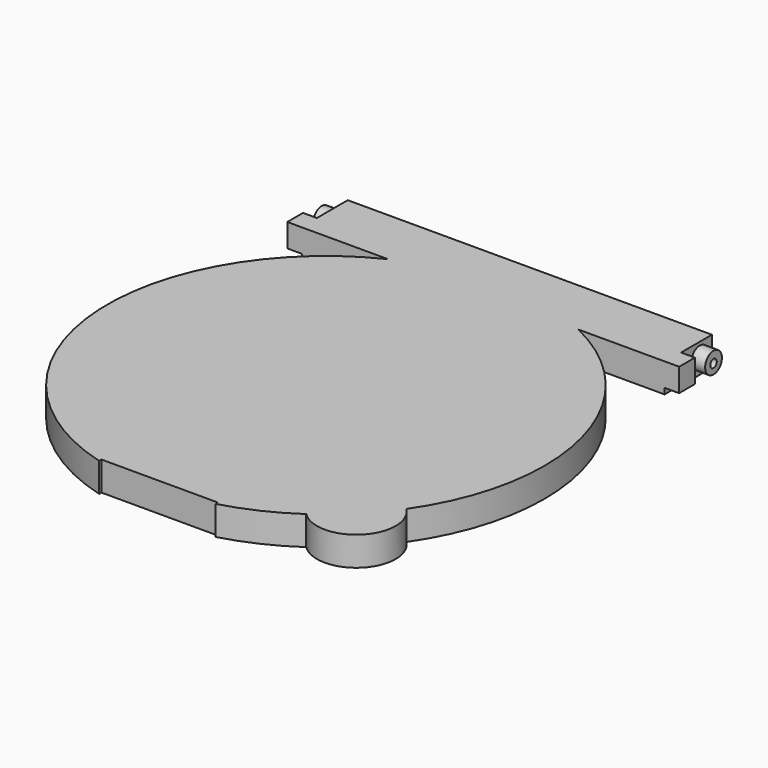
from build123d import *

# Parameters (mm, degrees)
PAD002_DEPTH       = 10
SKETCH027_R        = 3.6
POCKET001_DEPTH    = 5
POCKET004_DEPTH    = 7
POLARPATTERN_COUNT = 6
SKETCH032_R        = 21.5
POCKET005_DEPTH    = 7
POCKET006_DEPTH    = 142.501
SKETCH034_W        = 5
SKETCH034_H        = 8.75
POCKET007_DEPTH    = 2
SKETCH029_R        = 1.4
POCKET010_DEPTH    = 142.501
SKETCH077_R        = 4.05
POCKET021_DEPTH    = 3
SKETCH080_R        = 5.05
SKETCH080_R_2      = 4.05
PAD026_DEPTH       = 2


with BuildPart() as part:
    # Sketch026 → Pad002 (new body)
    with BuildSketch(Plane.XY):
        with BuildLine():
            Line((-32.691742, 67.5), (-67.25, 67.5))
            Line((-67.25, 67.5), (-67.25, 87.5))
            Line((-67.25, 87.5), (67.25, 87.5))
            Line((67.25, 87.5), (67.25, 67.5))
            Line((67.25, 67.5), (32.691742, 67.5))
            ThreePointArc((61.712741, -42.620858), (72.523806, 19.112758), (32.691742, 67.5))
            ThreePointArc((42.620858, -61.712741), (61.712741, -61.712741), (61.712741, -42.620858))
            ThreePointArc((20, -72.284161), (31.753452, -67.946437), (42.620858, -61.712741))
            Line((20, -71.284161), (20, -72.284161))
            Line((-20, -71.284161), (20, -71.284161))
            Line((-20, -72.284161), (-20, -71.284161))
            ThreePointArc((-32.691742, 67.5), (-74.692756, -6.78175), (-20, -72.284161))
        make_face()
    extrude(amount=PAD002_DEPTH)

    # Sketch027 (on DatumPlane) → Pocket001 (cut)
    with BuildSketch(Plane.YZ.offset(67.5)):
        Polygon((74.25, 10), (87.5, 10), (87.5, 0), (82.25, 0), (74.25, 0), align=None)
        with Locations((82.25, 5.25)):
            Circle(SKETCH027_R, mode=Mode.SUBTRACT)
    pocket001 = extrude(amount=-POCKET001_DEPTH, mode=Mode.SUBTRACT)

    # Mirrored002: Pocket001 across YZ
    add(pocket001.mirror(Plane.YZ), mode=Mode.SUBTRACT)

    # Sketch030 → Groove (revolve, cut)
    with BuildSketch(Plane.XZ):
        with BuildLine():
            ThreePointArc((70, 0), (68, 4), (66, 0))
            Line((66, 0), (70, 0))
        make_face()
    revolve(axis=Axis((0, 0, 0), (0, 0, 1)), mode=Mode.SUBTRACT)

    # Sketch031 → Pocket004 (cut)
    with BuildSketch(Plane.XY):
        with BuildLine():
            ThreePointArc((49.255383, 39.279858), (27.334676, 56.761039), (0, 63))
            Line((0, 22.5), (0, 63))
            ThreePointArc((17.591208, 14.028521), (9.762384, 20.2718), (0, 22.5))
            Line((17.591208, 14.028521), (49.255383, 39.279858))
        make_face()
    pocket004 = extrude(amount=POCKET004_DEPTH, mode=Mode.SUBTRACT)

    # PolarPattern: Pocket004 ×6 about axis
    polarpattern_axis = Axis((0, 0, 0), (0, 0, 1))
    for i in range(1, POLARPATTERN_COUNT):
        add(pocket004.rotate(polarpattern_axis, i * 360 / POLARPATTERN_COUNT), mode=Mode.SUBTRACT)

    # Sketch032 → Pocket005 (cut)
    with BuildSketch(Plane.XY):
        Circle(SKETCH032_R)
    extrude(amount=POCKET005_DEPTH, mode=Mode.SUBTRACT)

    # Sketch033 (on DatumPlane) → Pocket006 (cut, through all)
    with BuildSketch(Plane.YZ.offset(67.5)):
        with BuildLine():
            Line((82.25, 0), (87.5, 0))
            Line((87.5, 0), (87.5, 5.25))
            ThreePointArc((82.25, 0), (85.962311, 1.537689), (87.5, 5.25))
        make_face()
    extrude(amount=-POCKET006_DEPTH, mode=Mode.SUBTRACT)

    # Sketch034 → Pocket007 (cut)
    with BuildSketch(Plane.XY):
        with Locations((64.75, 71.875)):
            Rectangle(SKETCH034_W, SKETCH034_H)
    pocket007 = extrude(amount=POCKET007_DEPTH, mode=Mode.SUBTRACT)

    # Mirrored003: Pocket007 across YZ
    add(pocket007.mirror(Plane.YZ), mode=Mode.SUBTRACT)

    # Sketch029 (on DatumPlane) → Pocket010 (cut, through all)
    with BuildSketch(Plane.YZ.offset(67.5)):
        with Locations((82.25, 5)):
            Circle(SKETCH029_R)
    extrude(amount=-POCKET010_DEPTH, mode=Mode.SUBTRACT)

    # Sketch077 (on DatumPlane) → Pocket021 (cut)
    with BuildSketch(Plane.XY.offset(-2)):
        with Locations((54.270445, -54.270445)):
            Circle(SKETCH077_R)
    extrude(amount=POCKET021_DEPTH, mode=Mode.SUBTRACT)

    # Sketch080 → Pad026 (join)
    with BuildSketch(Plane.XY):
        with Locations((54.270445, -54.270445)):
            Circle(SKETCH080_R)
        with Locations((54.270445, -54.270445)):
            Circle(SKETCH080_R_2, mode=Mode.SUBTRACT)
    extrude(amount=-PAD026_DEPTH)


with BuildPart() as part_1:
    # Body placement: moved
    add(part.part.moved(Location((0, 0, 10.5))))


solid = part_1.part
